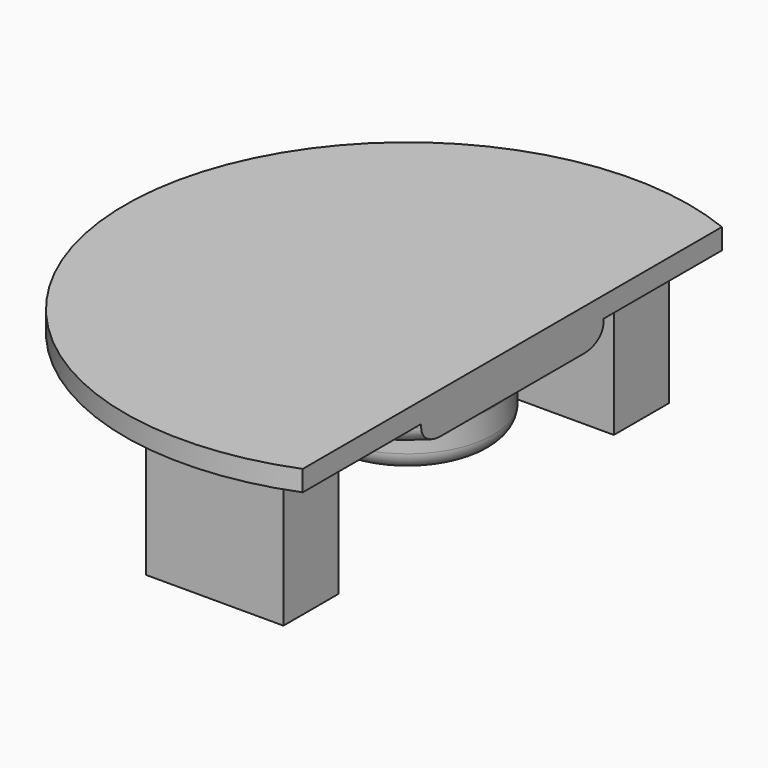
from build123d import *

# Parameters (mm, degrees)
PAD_DEPTH    = 0.6
PAD008_DEPTH = 0.6
FILLET_R     = 0.5
SKETCH018_R  = 2.5
PAD009_DEPTH = 1.7
FILLET001_R  = 0.5
SKETCH019_W  = 4
SKETCH019_H  = 2
PAD010_DEPTH = 4


with BuildPart() as part:
    # Sketch → Pad (new body)
    with BuildSketch(Plane.XY):
        with BuildLine():
            ThreePointArc((3.05, 7.6116686738), (-8.2, 0), (3.05, -7.6116686738))
            Line((3.05, 7.6116686738), (3.05, -7.6116686738))
        make_face()
    extrude(amount=-PAD_DEPTH)

    # Sketch017 (on Face4 of Pad) → Pad008 (join)
    with BuildSketch(Plane(origin=(0, 0, -0.6), x_dir=(1, 0, 0), z_dir=(0, 0, -1))):
        with BuildLine():
            ThreePointArc((3.0499999999, 3.3087006514), (-4.5, 0), (3.0499999999, -3.3087006514))
            Line((3.0499999999, 3.3087006514), (3.0499999999, -3.3087006514))
        make_face()
    extrude(amount=PAD008_DEPTH)

    # Fillet
    fillet_edges = [part.edges().sort_by_distance(p)[0] for p in [
        (-4.5, 0, -1.2),
    ]]
    fillet(fillet_edges, radius=FILLET_R)

    # Sketch018 (on Face5 of Fillet) → Pad009 (join)
    with BuildSketch(Plane(origin=(0, 0, -1.2), x_dir=(1, 0, 0), z_dir=(0, 0, -1))):
        Circle(SKETCH018_R)
    extrude(amount=PAD009_DEPTH)

    # Fillet001
    fillet001_edges = [part.edges().sort_by_distance(p)[0] for p in [
        (-2.5, 0, -2.9),
        (-2.5, 0, -1.2),
    ]]
    fillet(fillet001_edges, radius=FILLET001_R)

    # Sketch019 (on Face7 of Fillet001) → Pad010 (join)
    with BuildSketch(Plane(origin=(0, 0, -0.6), x_dir=(1, 0, 0), z_dir=(0, 0, -1))):
        with Locations((0, 6)):
            Rectangle(SKETCH019_W, SKETCH019_H)
        with Locations((0, -6)):
            Rectangle(SKETCH019_W, SKETCH019_H)
    extrude(amount=PAD010_DEPTH)


solid = part.part
